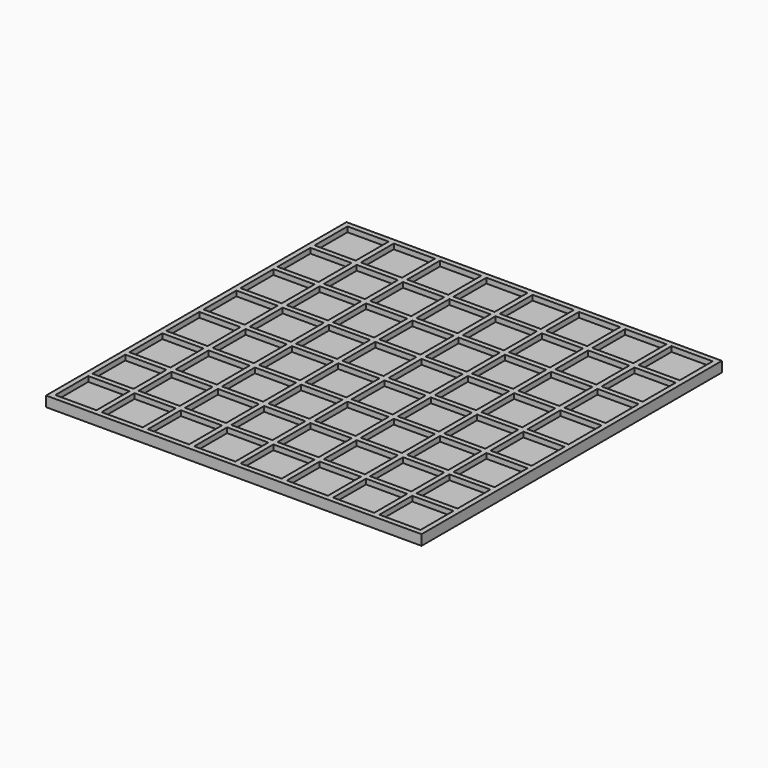
from build123d import *

# Parameters (mm, degrees)
F0_W     = 92.71
F0_H     = 92.71
F0_W_2   = 10.16
F0_H_2   = 10.16
F1_DEPTH = 2.54
F2_DEPTH = 1.27


with BuildPart() as f1:
    # F0 (on Top) → F1 (new body)
    with BuildSketch(Plane.XY):
        with Locations((46.355, 46.355)):
            Rectangle(F0_W, F0_H)
        with Locations((6.35, 6.35)):
            Rectangle(F0_W_2, F0_H_2, mode=Mode.SUBTRACT)
        with Locations((17.78, 6.35)):
            Rectangle(F0_W_2, F0_H_2, mode=Mode.SUBTRACT)
        with Locations((6.35, 17.78)):
            Rectangle(F0_W_2, F0_H_2, mode=Mode.SUBTRACT)
        with Locations((17.78, 17.78)):
            Rectangle(F0_W_2, F0_H_2, mode=Mode.SUBTRACT)
        with Locations((29.21, 6.35)):
            Rectangle(F0_W_2, F0_H_2, mode=Mode.SUBTRACT)
        with Locations((40.64, 6.35)):
            Rectangle(F0_W_2, F0_H_2, mode=Mode.SUBTRACT)
        with Locations((29.21, 17.78)):
            Rectangle(F0_W_2, F0_H_2, mode=Mode.SUBTRACT)
        with Locations((40.64, 17.78)):
            Rectangle(F0_W_2, F0_H_2, mode=Mode.SUBTRACT)
        with Locations((6.35, 29.21)):
            Rectangle(F0_W_2, F0_H_2, mode=Mode.SUBTRACT)
        with Locations((17.78, 29.21)):
            Rectangle(F0_W_2, F0_H_2, mode=Mode.SUBTRACT)
        with Locations((6.35, 40.64)):
            Rectangle(F0_W_2, F0_H_2, mode=Mode.SUBTRACT)
        with Locations((17.78, 40.64)):
            Rectangle(F0_W_2, F0_H_2, mode=Mode.SUBTRACT)
        with Locations((29.21, 29.21)):
            Rectangle(F0_W_2, F0_H_2, mode=Mode.SUBTRACT)
        with Locations((40.64, 29.21)):
            Rectangle(F0_W_2, F0_H_2, mode=Mode.SUBTRACT)
        with Locations((29.21, 40.64)):
            Rectangle(F0_W_2, F0_H_2, mode=Mode.SUBTRACT)
        with Locations((40.64, 40.64)):
            Rectangle(F0_W_2, F0_H_2, mode=Mode.SUBTRACT)
        with Locations((52.07, 6.35)):
            Rectangle(F0_W_2, F0_H_2, mode=Mode.SUBTRACT)
        with Locations((63.5, 6.35)):
            Rectangle(F0_W_2, F0_H_2, mode=Mode.SUBTRACT)
        with Locations((52.07, 17.78)):
            Rectangle(F0_W_2, F0_H_2, mode=Mode.SUBTRACT)
        with Locations((63.5, 17.78)):
            Rectangle(F0_W_2, F0_H_2, mode=Mode.SUBTRACT)
        with Locations((74.93, 6.35)):
            Rectangle(F0_W_2, F0_H_2, mode=Mode.SUBTRACT)
        with Locations((86.36, 6.35)):
            Rectangle(F0_W_2, F0_H_2, mode=Mode.SUBTRACT)
        with Locations((74.93, 17.78)):
            Rectangle(F0_W_2, F0_H_2, mode=Mode.SUBTRACT)
        with Locations((86.36, 17.78)):
            Rectangle(F0_W_2, F0_H_2, mode=Mode.SUBTRACT)
        with Locations((52.07, 29.21)):
            Rectangle(F0_W_2, F0_H_2, mode=Mode.SUBTRACT)
        with Locations((63.5, 29.21)):
            Rectangle(F0_W_2, F0_H_2, mode=Mode.SUBTRACT)
        with Locations((52.07, 40.64)):
            Rectangle(F0_W_2, F0_H_2, mode=Mode.SUBTRACT)
        with Locations((63.5, 40.64)):
            Rectangle(F0_W_2, F0_H_2, mode=Mode.SUBTRACT)
        with Locations((74.93, 29.21)):
            Rectangle(F0_W_2, F0_H_2, mode=Mode.SUBTRACT)
        with Locations((86.36, 29.21)):
            Rectangle(F0_W_2, F0_H_2, mode=Mode.SUBTRACT)
        with Locations((74.93, 40.64)):
            Rectangle(F0_W_2, F0_H_2, mode=Mode.SUBTRACT)
        with Locations((86.36, 40.64)):
            Rectangle(F0_W_2, F0_H_2, mode=Mode.SUBTRACT)
        with Locations((6.35, 52.07)):
            Rectangle(F0_W_2, F0_H_2, mode=Mode.SUBTRACT)
        with Locations((17.78, 52.07)):
            Rectangle(F0_W_2, F0_H_2, mode=Mode.SUBTRACT)
        with Locations((6.35, 63.5)):
            Rectangle(F0_W_2, F0_H_2, mode=Mode.SUBTRACT)
        with Locations((17.78, 63.5)):
            Rectangle(F0_W_2, F0_H_2, mode=Mode.SUBTRACT)
        with Locations((29.21, 52.07)):
            Rectangle(F0_W_2, F0_H_2, mode=Mode.SUBTRACT)
        with Locations((40.64, 52.07)):
            Rectangle(F0_W_2, F0_H_2, mode=Mode.SUBTRACT)
        with Locations((29.21, 63.5)):
            Rectangle(F0_W_2, F0_H_2, mode=Mode.SUBTRACT)
        with Locations((40.64, 63.5)):
            Rectangle(F0_W_2, F0_H_2, mode=Mode.SUBTRACT)
        with Locations((6.35, 74.93)):
            Rectangle(F0_W_2, F0_H_2, mode=Mode.SUBTRACT)
        with Locations((17.78, 74.93)):
            Rectangle(F0_W_2, F0_H_2, mode=Mode.SUBTRACT)
        with Locations((6.35, 86.36)):
            Rectangle(F0_W_2, F0_H_2, mode=Mode.SUBTRACT)
        with Locations((17.78, 86.36)):
            Rectangle(F0_W_2, F0_H_2, mode=Mode.SUBTRACT)
        with Locations((29.21, 74.93)):
            Rectangle(F0_W_2, F0_H_2, mode=Mode.SUBTRACT)
        with Locations((40.64, 74.93)):
            Rectangle(F0_W_2, F0_H_2, mode=Mode.SUBTRACT)
        with Locations((29.21, 86.36)):
            Rectangle(F0_W_2, F0_H_2, mode=Mode.SUBTRACT)
        with Locations((40.64, 86.36)):
            Rectangle(F0_W_2, F0_H_2, mode=Mode.SUBTRACT)
        with Locations((52.07, 52.07)):
            Rectangle(F0_W_2, F0_H_2, mode=Mode.SUBTRACT)
        with Locations((63.5, 52.07)):
            Rectangle(F0_W_2, F0_H_2, mode=Mode.SUBTRACT)
        with Locations((52.07, 63.5)):
            Rectangle(F0_W_2, F0_H_2, mode=Mode.SUBTRACT)
        with Locations((63.5, 63.5)):
            Rectangle(F0_W_2, F0_H_2, mode=Mode.SUBTRACT)
        with Locations((74.93, 52.07)):
            Rectangle(F0_W_2, F0_H_2, mode=Mode.SUBTRACT)
        with Locations((86.36, 52.07)):
            Rectangle(F0_W_2, F0_H_2, mode=Mode.SUBTRACT)
        with Locations((74.93, 63.5)):
            Rectangle(F0_W_2, F0_H_2, mode=Mode.SUBTRACT)
        with Locations((86.36, 63.5)):
            Rectangle(F0_W_2, F0_H_2, mode=Mode.SUBTRACT)
        with Locations((52.07, 74.93)):
            Rectangle(F0_W_2, F0_H_2, mode=Mode.SUBTRACT)
        with Locations((63.5, 74.93)):
            Rectangle(F0_W_2, F0_H_2, mode=Mode.SUBTRACT)
        with Locations((52.07, 86.36)):
            Rectangle(F0_W_2, F0_H_2, mode=Mode.SUBTRACT)
        with Locations((63.5, 86.36)):
            Rectangle(F0_W_2, F0_H_2, mode=Mode.SUBTRACT)
        with Locations((74.93, 74.93)):
            Rectangle(F0_W_2, F0_H_2, mode=Mode.SUBTRACT)
        with Locations((86.36, 74.93)):
            Rectangle(F0_W_2, F0_H_2, mode=Mode.SUBTRACT)
        with Locations((74.93, 86.36)):
            Rectangle(F0_W_2, F0_H_2, mode=Mode.SUBTRACT)
        with Locations((86.36, 86.36)):
            Rectangle(F0_W_2, F0_H_2, mode=Mode.SUBTRACT)
    extrude(amount=F1_DEPTH)

    # F0 (on Top) → F2 (join)
    with BuildSketch(Plane.XY):
        with Locations((6.35, 86.36)):
            Rectangle(F0_W_2, F0_H_2)
        with Locations((17.78, 86.36)):
            Rectangle(F0_W_2, F0_H_2)
        with Locations((17.78, 74.93)):
            Rectangle(F0_W_2, F0_H_2)
        with Locations((6.35, 74.93)):
            Rectangle(F0_W_2, F0_H_2)
        with Locations((6.35, 63.5)):
            Rectangle(F0_W_2, F0_H_2)
        with Locations((17.78, 63.5)):
            Rectangle(F0_W_2, F0_H_2)
        with Locations((6.35, 52.07)):
            Rectangle(F0_W_2, F0_H_2)
        with Locations((6.35, 40.64)):
            Rectangle(F0_W_2, F0_H_2)
        with Locations((6.35, 29.21)):
            Rectangle(F0_W_2, F0_H_2)
        with Locations((6.35, 17.78)):
            Rectangle(F0_W_2, F0_H_2)
        with Locations((6.35, 6.35)):
            Rectangle(F0_W_2, F0_H_2)
        with Locations((17.78, 52.07)):
            Rectangle(F0_W_2, F0_H_2)
        with Locations((17.78, 40.64)):
            Rectangle(F0_W_2, F0_H_2)
        with Locations((17.78, 29.21)):
            Rectangle(F0_W_2, F0_H_2)
        with Locations((17.78, 17.78)):
            Rectangle(F0_W_2, F0_H_2)
        with Locations((17.78, 6.35)):
            Rectangle(F0_W_2, F0_H_2)
        with Locations((29.21, 6.35)):
            Rectangle(F0_W_2, F0_H_2)
        with Locations((29.21, 17.78)):
            Rectangle(F0_W_2, F0_H_2)
        with Locations((29.21, 29.21)):
            Rectangle(F0_W_2, F0_H_2)
        with Locations((29.21, 40.64)):
            Rectangle(F0_W_2, F0_H_2)
        with Locations((29.21, 52.07)):
            Rectangle(F0_W_2, F0_H_2)
        with Locations((29.21, 63.5)):
            Rectangle(F0_W_2, F0_H_2)
        with Locations((29.21, 74.93)):
            Rectangle(F0_W_2, F0_H_2)
        with Locations((29.21, 86.36)):
            Rectangle(F0_W_2, F0_H_2)
        with Locations((40.64, 86.36)):
            Rectangle(F0_W_2, F0_H_2)
        with Locations((40.64, 74.93)):
            Rectangle(F0_W_2, F0_H_2)
        with Locations((40.64, 63.5)):
            Rectangle(F0_W_2, F0_H_2)
        with Locations((40.64, 52.07)):
            Rectangle(F0_W_2, F0_H_2)
        with Locations((40.64, 40.64)):
            Rectangle(F0_W_2, F0_H_2)
        with Locations((40.64, 29.21)):
            Rectangle(F0_W_2, F0_H_2)
        with Locations((40.64, 17.78)):
            Rectangle(F0_W_2, F0_H_2)
        with Locations((40.64, 6.35)):
            Rectangle(F0_W_2, F0_H_2)
        with Locations((52.07, 6.35)):
            Rectangle(F0_W_2, F0_H_2)
        with Locations((52.07, 17.78)):
            Rectangle(F0_W_2, F0_H_2)
        with Locations((52.07, 29.21)):
            Rectangle(F0_W_2, F0_H_2)
        with Locations((52.07, 40.64)):
            Rectangle(F0_W_2, F0_H_2)
        with Locations((52.07, 52.07)):
            Rectangle(F0_W_2, F0_H_2)
        with Locations((52.07, 63.5)):
            Rectangle(F0_W_2, F0_H_2)
        with Locations((52.07, 74.93)):
            Rectangle(F0_W_2, F0_H_2)
        with Locations((52.07, 86.36)):
            Rectangle(F0_W_2, F0_H_2)
        with Locations((63.5, 86.36)):
            Rectangle(F0_W_2, F0_H_2)
        with Locations((63.5, 74.93)):
            Rectangle(F0_W_2, F0_H_2)
        with Locations((63.5, 63.5)):
            Rectangle(F0_W_2, F0_H_2)
        with Locations((63.5, 52.07)):
            Rectangle(F0_W_2, F0_H_2)
        with Locations((63.5, 40.64)):
            Rectangle(F0_W_2, F0_H_2)
        with Locations((63.5, 29.21)):
            Rectangle(F0_W_2, F0_H_2)
        with Locations((63.5, 17.78)):
            Rectangle(F0_W_2, F0_H_2)
        with Locations((63.5, 6.35)):
            Rectangle(F0_W_2, F0_H_2)
        with Locations((74.93, 6.35)):
            Rectangle(F0_W_2, F0_H_2)
        with Locations((74.93, 17.78)):
            Rectangle(F0_W_2, F0_H_2)
        with Locations((74.93, 29.21)):
            Rectangle(F0_W_2, F0_H_2)
        with Locations((74.93, 40.64)):
            Rectangle(F0_W_2, F0_H_2)
        with Locations((74.93, 52.07)):
            Rectangle(F0_W_2, F0_H_2)
        with Locations((74.93, 63.5)):
            Rectangle(F0_W_2, F0_H_2)
        with Locations((74.93, 74.93)):
            Rectangle(F0_W_2, F0_H_2)
        with Locations((74.93, 86.36)):
            Rectangle(F0_W_2, F0_H_2)
        with Locations((86.36, 86.36)):
            Rectangle(F0_W_2, F0_H_2)
        with Locations((86.36, 74.93)):
            Rectangle(F0_W_2, F0_H_2)
        with Locations((86.36, 63.5)):
            Rectangle(F0_W_2, F0_H_2)
        with Locations((86.36, 52.07)):
            Rectangle(F0_W_2, F0_H_2)
        with Locations((86.36, 40.64)):
            Rectangle(F0_W_2, F0_H_2)
        with Locations((86.36, 29.21)):
            Rectangle(F0_W_2, F0_H_2)
        with Locations((86.36, 17.78)):
            Rectangle(F0_W_2, F0_H_2)
        with Locations((86.36, 6.35)):
            Rectangle(F0_W_2, F0_H_2)
    extrude(amount=F2_DEPTH)


solid = f1.part
